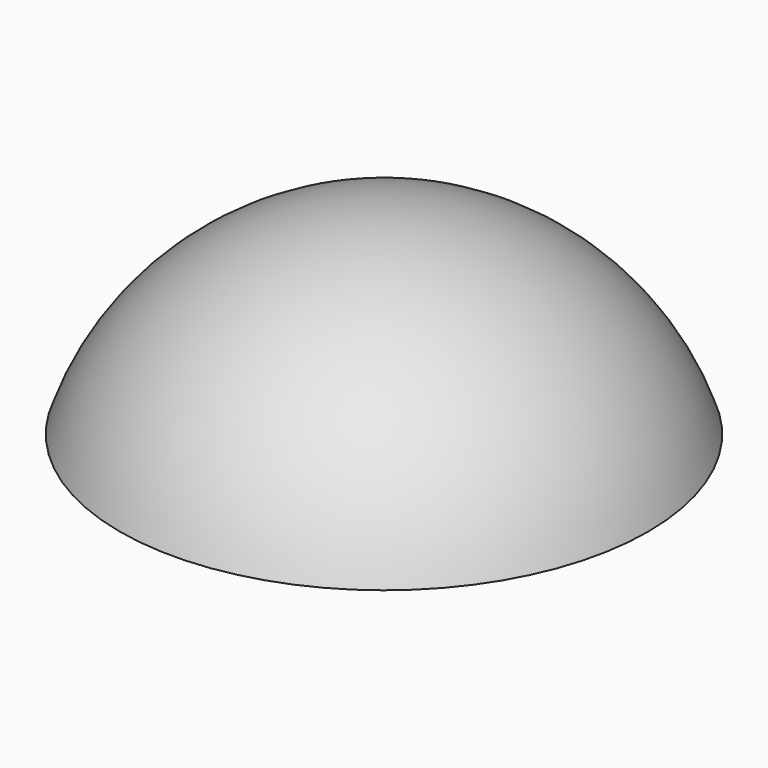
from build123d import *

# Parameters (mm, degrees)
F4_DEPTH = 5.2
F5_R     = 2


with BuildPart() as f2:
    # F1 (on Front) → F2 (revolve)
    with BuildSketch(Plane.XZ):
        with BuildLine():
            ThreePointArc((0, 7.2088790199), (-6.1637637999, 5.2187873117), (-10, 0))
            Line((-10, 0), (0, 0))
            Line((0, 0), (0, 7.2088790199))
        make_face()
    revolve(axis=Axis((0, 0, 3.60443951), (0, 0, 1)))

    # F3 (on face) → F4 (cut)
    with BuildSketch(Plane(origin=(0, 0, 0), x_dir=(1, 0, 0), z_dir=(0, 0, -1))):
        Polygon((2.35, 4.0703193978), (-2.35, 4.0703193978), (-4.7, 0), (-2.35, -4.0703193978), (2.35, -4.0703193978), (4.7, 0), align=None)
    extrude(amount=-F4_DEPTH, mode=Mode.SUBTRACT)

    # F5
    f5_edges = [f2.edges().sort_by_distance(p)[0] for p in [
        (0, -4.070319, 5.2),
        (-3.525, -2.03516, 5.2),
        (3.525, -2.03516, 5.2),
        (3.525, 2.03516, 5.2),
        (-3.525, 2.03516, 5.2),
        (0, 4.070319, 5.2),
    ]]
    fillet(f5_edges, radius=F5_R)


solid = f2.part
